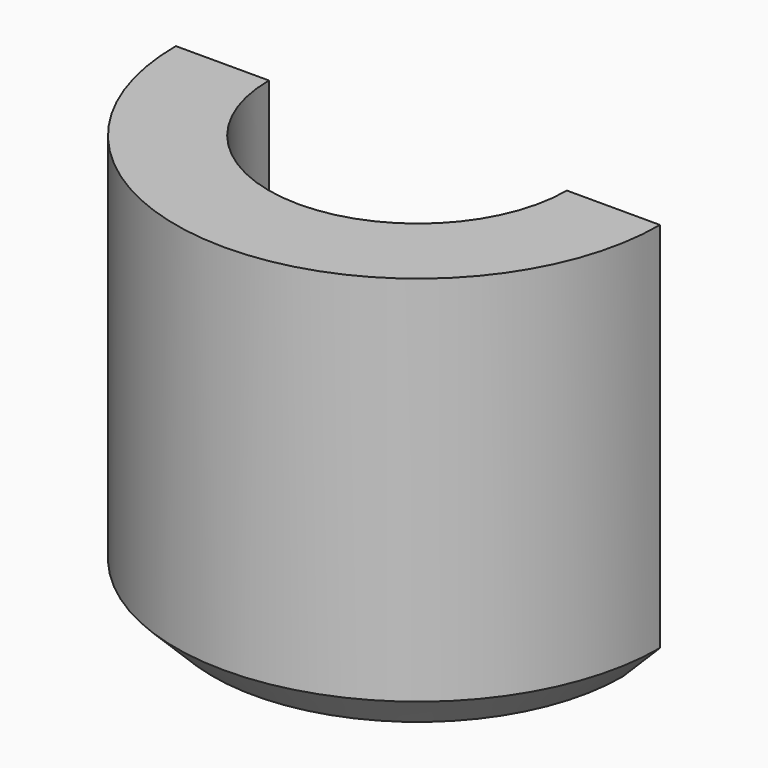
from build123d import *

# Parameters (mm, degrees)
F2_W     = 53.843694
F2_H     = 49.812616
F3_DEPTH = 6.501


with BuildPart() as f1:
    # F0 (on Front) → F1 (revolve)
    with BuildSketch(Plane.XZ):
        Polygon((28.643991, 4.362423), (26.143991, 4.362423), (26.143991, -0.637577), (25.143991, -0.637577), (25.143991, -2.637577), (27.643991, -6.637577), (28.643991, -5.637577), align=None)
    revolve(axis=Axis((22.143991, 0, -3.490844), (0, 0, -1)))

    # F2 (on Front) → F3 (cut, through all)
    with BuildSketch(Plane.XZ):
        with Locations((21.595064, 2.159507)):
            Rectangle(F2_W, F2_H)
    extrude(amount=-F3_DEPTH, mode=Mode.SUBTRACT)


solid = f1.part
